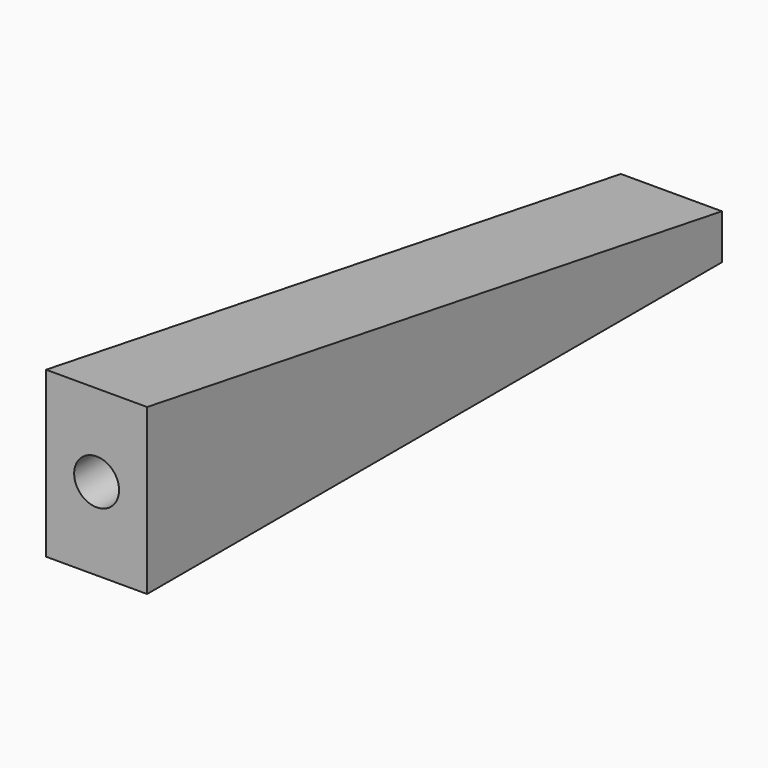
from build123d import *

# Parameters (mm, degrees)
F1_DEPTH = 21.43125
F2_R     = 9.525
F3_DEPTH = 50.8


with BuildPart() as f1:
    # F0 (on Right) → F1 (new body, symmetric)
    with BuildSketch(Plane.YZ):
        Polygon((-152.4, 69.85), (-152.4, 0), (152.4, 0), (152.4, 19.05), align=None)
    extrude(amount=F1_DEPTH, both=True)

    # F2 (on face) → F3 (cut)
    with BuildSketch(Plane.XZ.offset(152.4)):
        with Locations((0, 34.925)):
            Circle(F2_R)
    extrude(amount=-F3_DEPTH, mode=Mode.SUBTRACT)


solid = f1.part
